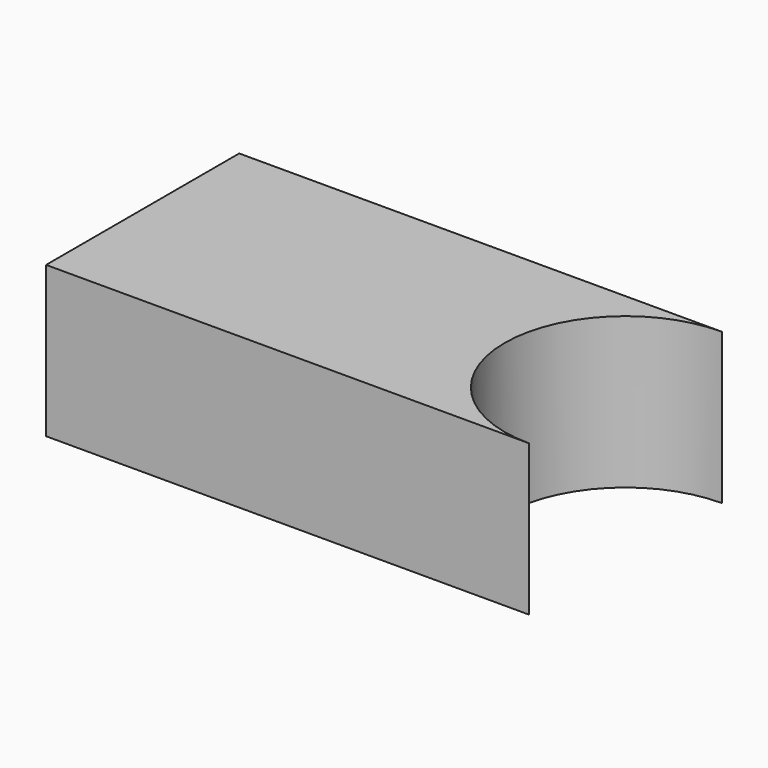
from build123d import *

# Parameters (mm, degrees)
F0_W      = 80
F0_H      = 50
F1_DEPTH  = 80
F1_FACE_W = 80
F1_FACE_H = 50
F2_DEPTH  = 80
F4_DEPTH  = 50


with BuildPart() as f1:
    # F0 (on Right) → F1 (new body)
    with BuildSketch(Plane.YZ):
        Rectangle(F0_W, F0_H)
    extrude(amount=F1_DEPTH)

    # F1_face (on face) → F2 (join)
    with BuildSketch(Plane(origin=(0, 0, 0), x_dir=(0, 1, 0), z_dir=(-1, 0, 0))):
        Rectangle(F1_FACE_W, F1_FACE_H)
    extrude(amount=F2_DEPTH)

    # F3 (on face) → F4 (cut)
    with BuildSketch(Plane.XY.offset(25)):
        with BuildLine():
            Line((80, -40), (80, 40))
            ThreePointArc((80, 40), (40, 0), (80, -40))
        make_face()
    extrude(amount=-F4_DEPTH, mode=Mode.SUBTRACT)


solid = f1.part
